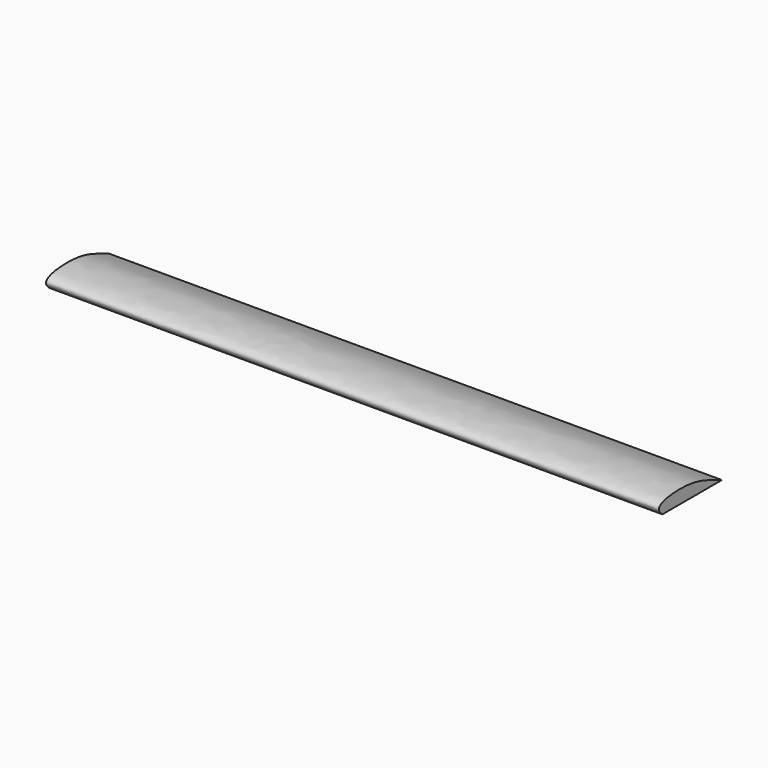
from build123d import *

# Parameters (mm, degrees)
F1_DEPTH = 1778


with BuildPart() as f1:
    # F0 (on Right) → F1 (new body)
    with BuildSketch(Plane.YZ):
        with BuildLine():
            add(Edge.make_bspline(
                [(-215.9, 0), (-254.8283100128, 31.1331100762), (-109.1444188426, 50.3687896295), (-55.7836709922, 22.2630112389), (0, 0)],
                knots=[0, 0, 0, 0, 0.4115757107, 1, 1, 1, 1], degree=3))
            Line((-215.9, 0), (0, 0))
        make_face()
    extrude(amount=F1_DEPTH)


solid = f1.part
